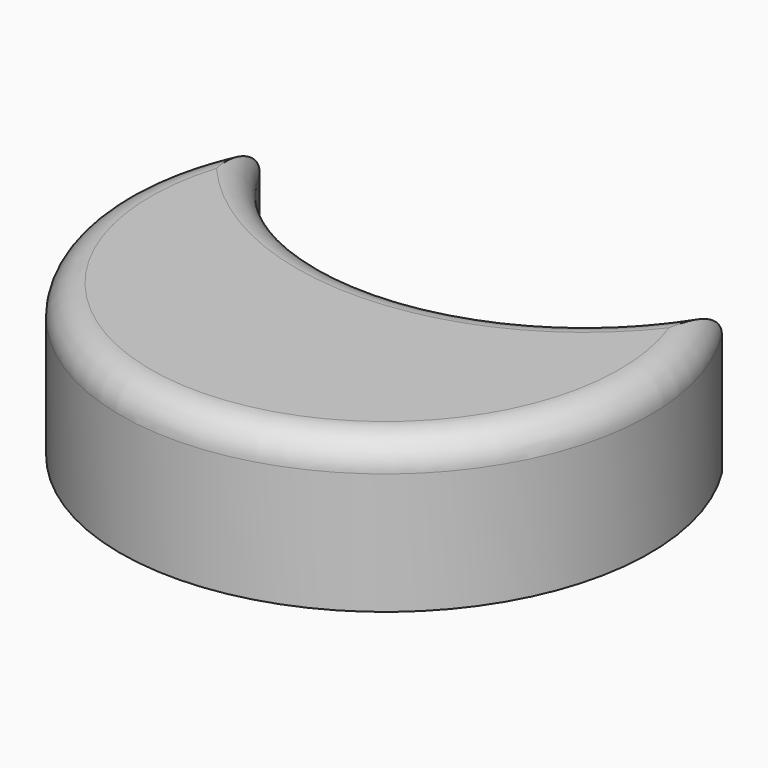
from build123d import *

# Parameters (mm, degrees)
F2_DEPTH = 25
F3_R     = 5


with BuildPart() as f2:
    # F0 (on Top) → F2 (new body)
    with BuildSketch(Plane.XY):
        with BuildLine():
            ThreePointArc((34.842629, 38.241908), (-2.038507, 14.910155), (-39.941549, 36.542267))
            ThreePointArc((-39.941549, 36.542267), (-1.050167, -28.576762), (34.842629, 38.241908))
        make_face()
    extrude(amount=F2_DEPTH)

    # F3
    f3_edges = [f2.edges().sort_by_distance(p)[0] for p in [
        (-1.050167, -28.576762, 25),
        (-2.038507, 14.910155, 25),
    ]]
    fillet(f3_edges, radius=F3_R)


solid = f2.part
